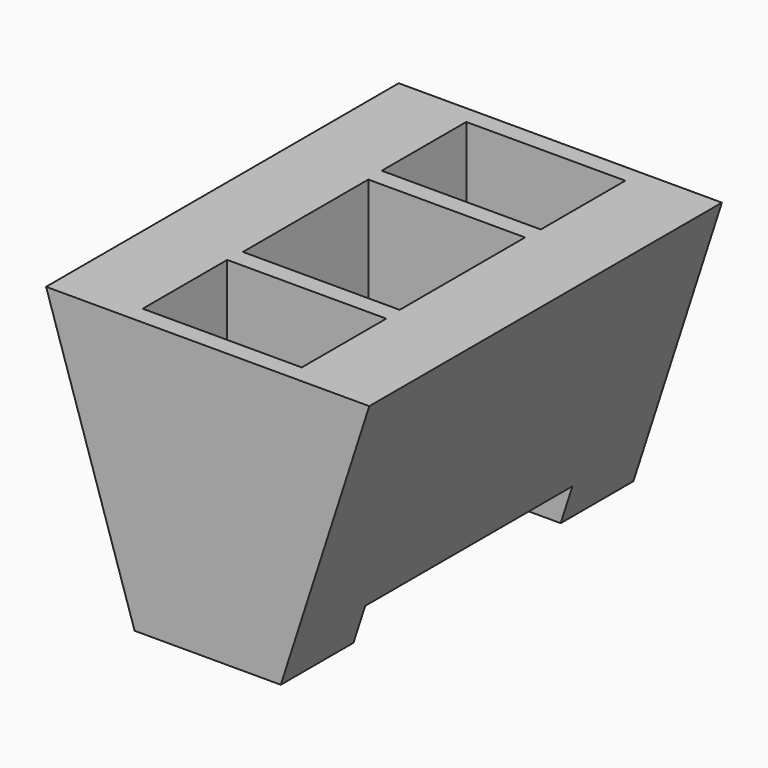
from build123d import *

# Parameters (mm, degrees)
F1_W      = 36.2
F1_H      = 38.8
F2_W      = 12.866667
F2_H      = 38.8
F3_FACE_W = 36.2
F3_FACE_H = 38.8
F4_DEPTH  = 12
F5_W      = 13.8
F5_H      = 13.8
F6_DEPTH  = 31
F7_W      = 20
F7_H      = 22.8
F8_DEPTH  = 3.2
F9_W      = 14
F9_H      = 9.3
F10_DEPTH = 31


with BuildPart() as f3:
    # F1 (on offset) → F3 section 0
    with BuildSketch(Plane.XY.offset(36.125)):
        with Locations((0, -19.4)):
            Rectangle(F1_W, F1_H)
    # F2 (on Top) → F3 section 1
    with BuildSketch(Plane.XY):
        with Locations((-3.3e-05, -19.4)):
            Rectangle(F2_W, F2_H)
    loft()

    # F3_face (on face) → F4 (cut)
    with BuildSketch(Plane(origin=(0, -19.4, 36.125), x_dir=(1, 0, 0), z_dir=(0, 0, 1))):
        Rectangle(F3_FACE_W, F3_FACE_H)
    extrude(amount=-F4_DEPTH, mode=Mode.SUBTRACT)

    # F5 (on offset) → F6 (cut)
    with BuildSketch(Plane.XY.offset(36.125)):
        with Locations((0, -19.4)):
            Rectangle(F5_W, F5_H)
    extrude(amount=-F6_DEPTH, mode=Mode.SUBTRACT)

    # F7 (on Top) → F8 (cut)
    with BuildSketch(Plane.XY):
        with Locations((0, -19.4)):
            Rectangle(F7_W, F7_H)
    extrude(amount=F8_DEPTH, mode=Mode.SUBTRACT)

    # F9 (on offset) → F10 (cut)
    with BuildSketch(Plane.XY.offset(36.125)):
        with Locations((0, -6.25)):
            Rectangle(F9_W, F9_H)
        with Locations((0, -32.55)):
            Rectangle(F9_W, F9_H)
    extrude(amount=-F10_DEPTH, mode=Mode.SUBTRACT)


solid = f3.part
